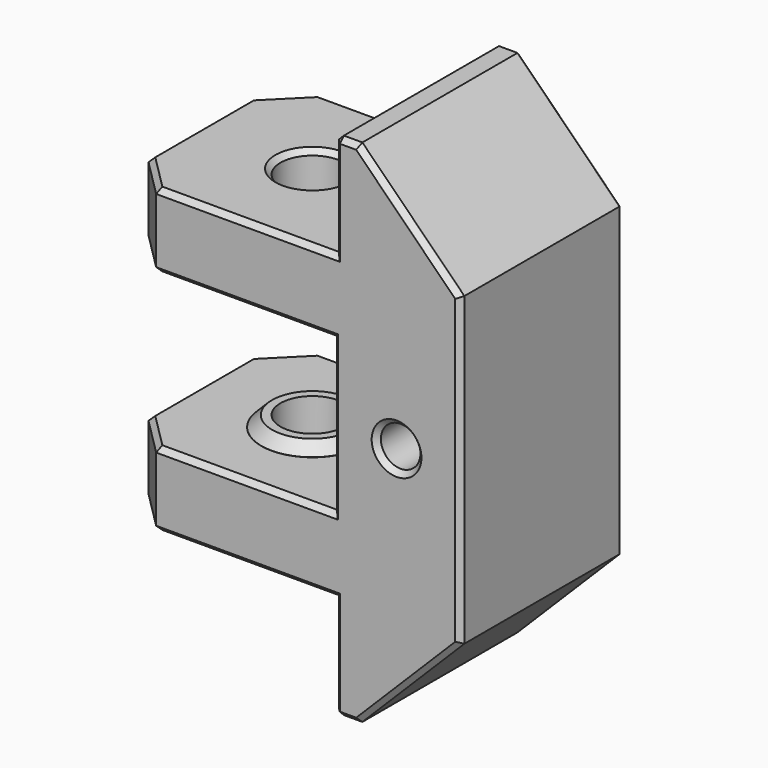
from build123d import *

# Parameters (mm, degrees)
PAD_DEPTH            = 16
SKETCH002_R          = 4
PAD001_DEPTH         = 0.85
SKETCH003_R          = 4
PAD002_DEPTH         = 0.85
SKETCH004_R          = 2.5
POCKET001_DEPTH      = 32.001
CHAMFER_SIZE         = 0.84
CHAMFER020021_SIZE   = 0.4
CHAMFER020022_SIZE   = 3
CHAMFER020023_SIZE   = 8
SKETCH005_R          = 1.55
POCKET_DEPTH         = 16.001
SKETCH006_R          = 1.9
POCKET002_DEPTH      = 7
CHAMFER020024_SIZE   = 0.4
BODY_PLACEMENT_ANGLE = 270


with BuildPart() as part:
    # Sketch → Pad (new body)
    with BuildSketch(Plane.YZ):
        Polygon((-8.85, 6), (8, 6), (8, -6), (-8.85, -6), (-8.85, -11.85), (8.15, -11.85), (8.15, -20), (18, -20), (18, 20), (8.15, 20), (8.15, 11.85), (-8.85, 11.85), align=None)
    extrude(amount=PAD_DEPTH)

    # Sketch002 (on DatumPlane) → Pad001 (join)
    with BuildSketch(Plane.XY.offset(-6)):
        with Locations((8, 0)):
            Circle(SKETCH002_R)
    extrude(amount=PAD001_DEPTH)

    # Sketch003 (on DatumPlane) → Pad002 (join)
    with BuildSketch(Plane.XY.offset(6)):
        with Locations((8, 0)):
            Circle(SKETCH003_R)
    extrude(amount=-PAD002_DEPTH)

    # Sketch004 (on DatumPlane) → Pocket001 (cut, through all)
    with BuildSketch(Plane.XY.offset(-12)):
        with Locations((8, 0)):
            Circle(SKETCH004_R)
    extrude(amount=POCKET001_DEPTH, mode=Mode.SUBTRACT)

    # Chamfer
    chamfer_edges = [part.edges().sort_by_distance(p)[0] for p in [
        (4, 0, -5.15),
        (4, 0, 5.15),
    ]]
    chamfer(chamfer_edges, length=CHAMFER_SIZE)

    # Chamfer020021
    chamfer020021_edges = [part.edges().sort_by_distance(p)[0] for p in [
        (5.5, 0, -11.85),
        (5.5, 0, 11.85),
    ]]
    chamfer(chamfer020021_edges, length=CHAMFER020021_SIZE)

    # Chamfer020022
    chamfer020022_edges = [part.edges().sort_by_distance(p)[0] for p in [
        (0, -8.85, 8.925),
        (16, -8.85, 8.925),
        (0, -8.85, -8.925),
        (16, -8.85, -8.925),
    ]]
    chamfer(chamfer020022_edges, length=CHAMFER020022_SIZE)

    # Chamfer020023
    chamfer020023_edges = [part.edges().sort_by_distance(p)[0] for p in [
        (8, 18, 20),
        (8, 18, -20),
    ]]
    chamfer(chamfer020023_edges, length=CHAMFER020023_SIZE)

    # Sketch005 (on DatumPlane) → Pocket (cut, through all)
    with BuildSketch(Plane.YZ.offset(16)):
        with Locations((13, 0)):
            Circle(SKETCH005_R)
    extrude(amount=-POCKET_DEPTH, mode=Mode.SUBTRACT)

    # Sketch006 (on DatumPlane) → Pocket002 (cut)
    with BuildSketch(Plane.YZ):
        with Locations((13, 0)):
            Circle(SKETCH006_R)
    extrude(amount=POCKET002_DEPTH, mode=Mode.SUBTRACT)

    # Chamfer020024
    chamfer020024_edges = [part.edges().sort_by_distance(p)[0] for p in [
        (16, 1.15, 11.85),
        (16, 8.15, 15.925),
        (16, 9.075, 20),
        (16, 14, 16),
        (16, 11.45, 0),
        (16, 14, -16),
        (16, 18, 0),
        (16, 8.15, -15.925),
        (16, 9.075, -20),
        (16, 1.15, -11.85),
        (16, 1.075, -6),
        (14.5, -7.35, -6),
        (14.5, -7.35, -11.85),
        (8, -8.85, -6),
        (8, -8.85, -11.85),
        (0, 8.15, -15.925),
        (0, 1.15, -11.85),
        (1.5, -7.35, -11.85),
        (1.5, -7.35, -6),
        (0, 1.075, -6),
        (0, 9.075, -20),
        (0, 14, -16),
        (0, 18, 0),
        (0, 11.1, 0),
        (0, 14, 16),
        (0, 9.075, 20),
        (0, 8.15, 15.925),
        (0, 1.15, 11.85),
        (0, 8, 0),
        (0, 1.075, 6),
        (1.5, -7.35, 6),
        (1.5, -7.35, 11.85),
        (8, -8.85, 11.85),
        (8, -8.85, 6),
        (14.5, -7.35, 6),
        (16, 1.075, 6),
        (16, 8, 0),
        (8, 8.15, -20),
        (8, 8.15, 20),
        (14.5, -7.35, 11.85),
    ]]
    chamfer(chamfer020024_edges, length=CHAMFER020024_SIZE)


with BuildPart() as part_1:
    # Body placement: moved
    add(part.part.moved(Location((9, 0, 14))).rotate(Axis((9, 0, 14), (0, 0, 1)), BODY_PLACEMENT_ANGLE))


solid = part_1.part
